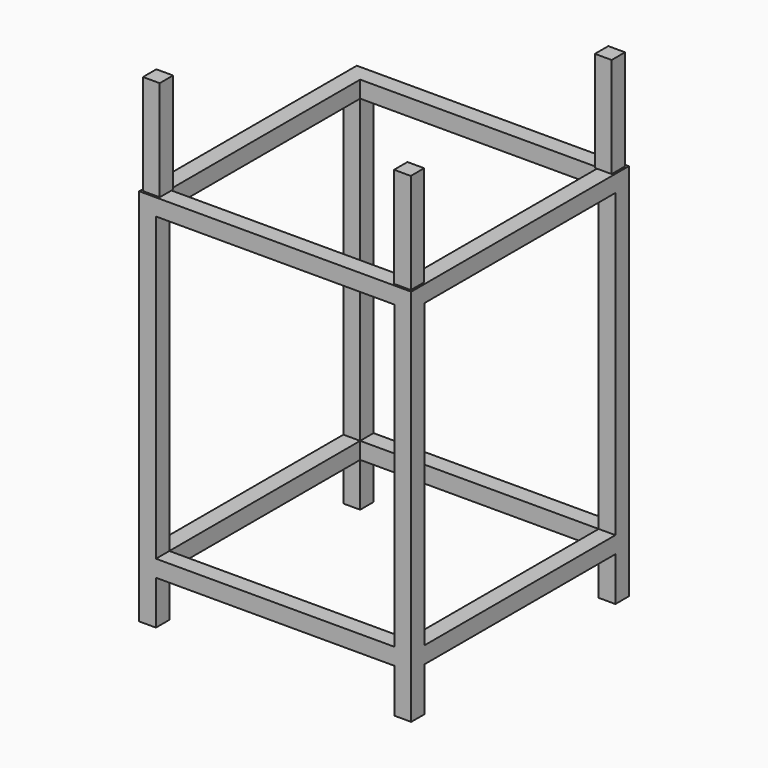
from build123d import *

# Parameters (mm, degrees)
F0_W          = 570
F0_H          = 40
F1_DEPTH      = 40
F0_W_2        = 40
F0_H_2        = 570
F2_DEPTH      = 760
F2_DEPTH_BACK = 145
F3_W          = 5
F3_H          = 35
F3_H_2        = 5
F3_W_2        = 35
F4_DEPTH      = 40
F5_DEPTH      = 240


with BuildPart() as f1:
    # F0 (on Top) → F1 (new body)
    with BuildSketch(Plane.XY):
        with Locations((0, 305)):
            Rectangle(F0_W, F0_H)
    extrude(amount=-F1_DEPTH)



with BuildPart() as f1b:
    # F0 (on Top) → F1, piece 2 (new body)
    with BuildSketch(Plane.XY):
        with Locations((-305, 0)):
            Rectangle(F0_W_2, F0_H_2)
    extrude(amount=-F1_DEPTH)


with BuildPart() as f1c:
    # F0 (on Top) → F1, piece 3 (new body)
    with BuildSketch(Plane.XY):
        with Locations((305, 0)):
            Rectangle(F0_W_2, F0_H_2)
    extrude(amount=-F1_DEPTH)


with BuildPart() as f1d:
    # F0 (on Top) → F1, piece 4 (new body)
    with BuildSketch(Plane.XY):
        with Locations((0, -305)):
            Rectangle(F0_W, F0_H)
    extrude(amount=-F1_DEPTH)


with BuildPart() as f1_1:
    add(f1.part)

    add(f1b.part)  # F2 merges F1b

    add(f1c.part)  # F2 merges F1c

    add(f1d.part)  # F2 merges F1d
    # F0 (on Top) → F2 (join, two sides)
    with BuildSketch(Plane.XY) as f2_sk:
        with Locations((-305, 305)):
            Rectangle(F0_W_2, F0_H)
        with Locations((305, 305)):
            Rectangle(F0_W_2, F0_H)
        with Locations((305, -305)):
            Rectangle(F0_W_2, F0_H)
        with Locations((-305, -305)):
            Rectangle(F0_W_2, F0_H)
    extrude(amount=F2_DEPTH)
    extrude(f2_sk.sketch, amount=-F2_DEPTH_BACK)

    # F3 (on face) → F4 (join)
    with BuildSketch(Plane.XY.offset(760)):
        Polygon((280, 320), (280, 325), (-280, 325), (-280, 320), (-280, 285), (280, 285), align=None)
        with Locations((-282.5, 302.5)):
            Rectangle(F3_W, F3_H)
        with Locations((-282.5, 322.5)):
            Rectangle(F3_W, F3_H_2)
        with Locations((-302.5, 282.5)):
            Rectangle(F3_W_2, F3_H_2)
        with Locations((-322.5, 282.5)):
            Rectangle(F3_W, F3_H_2)
        Polygon((-285, -280), (-285, 280), (-320, 280), (-325, 280), (-325, -280), (-320, -280), align=None)
        with Locations((282.5, 302.5)):
            Rectangle(F3_W, F3_H)
        with Locations((282.5, 322.5)):
            Rectangle(F3_W, F3_H_2)
        with Locations((302.5, 282.5)):
            Rectangle(F3_W_2, F3_H_2)
        with Locations((322.5, 282.5)):
            Rectangle(F3_W, F3_H_2)
        Polygon((325, -280), (325, 280), (320, 280), (285, 280), (285, -280), (320, -280), align=None)
        with Locations((302.5, -282.5)):
            Rectangle(F3_W_2, F3_H_2)
        with Locations((322.5, -282.5)):
            Rectangle(F3_W, F3_H_2)
        with Locations((282.5, -302.5)):
            Rectangle(F3_W, F3_H)
        with Locations((282.5, -322.5)):
            Rectangle(F3_W, F3_H_2)
        Polygon((280, -320), (280, -285), (-280, -285), (-280, -320), (-280, -325), (280, -325), align=None)
        with Locations((-282.5, -302.5)):
            Rectangle(F3_W, F3_H)
        with Locations((-282.5, -322.5)):
            Rectangle(F3_W, F3_H_2)
        with Locations((-302.5, -282.5)):
            Rectangle(F3_W_2, F3_H_2)
        with Locations((-322.5, -282.5)):
            Rectangle(F3_W, F3_H_2)
    extrude(amount=-F4_DEPTH)

    # F3 (on face) → F5 (join)
    with BuildSketch(Plane.XY.offset(760)):
        with Locations((302.5, -282.5)):
            Rectangle(F3_W_2, F3_H_2)
        with Locations((302.5, -302.5)):
            Rectangle(F3_W_2, F3_H)
        with Locations((282.5, -302.5)):
            Rectangle(F3_W, F3_H)
        with Locations((282.5, -282.5)):
            Rectangle(F3_W, F3_H_2)
        with Locations((302.5, 302.5)):
            Rectangle(F3_W_2, F3_H)
        with Locations((302.5, 282.5)):
            Rectangle(F3_W_2, F3_H_2)
        with Locations((282.5, 282.5)):
            Rectangle(F3_W, F3_H_2)
        with Locations((282.5, 302.5)):
            Rectangle(F3_W, F3_H)
        with Locations((-302.5, -302.5)):
            Rectangle(F3_W_2, F3_H)
        with Locations((-302.5, -282.5)):
            Rectangle(F3_W_2, F3_H_2)
        with Locations((-282.5, -282.5)):
            Rectangle(F3_W, F3_H_2)
        with Locations((-282.5, -302.5)):
            Rectangle(F3_W, F3_H)
    extrude(amount=F5_DEPTH)


solid = f1_1.part
